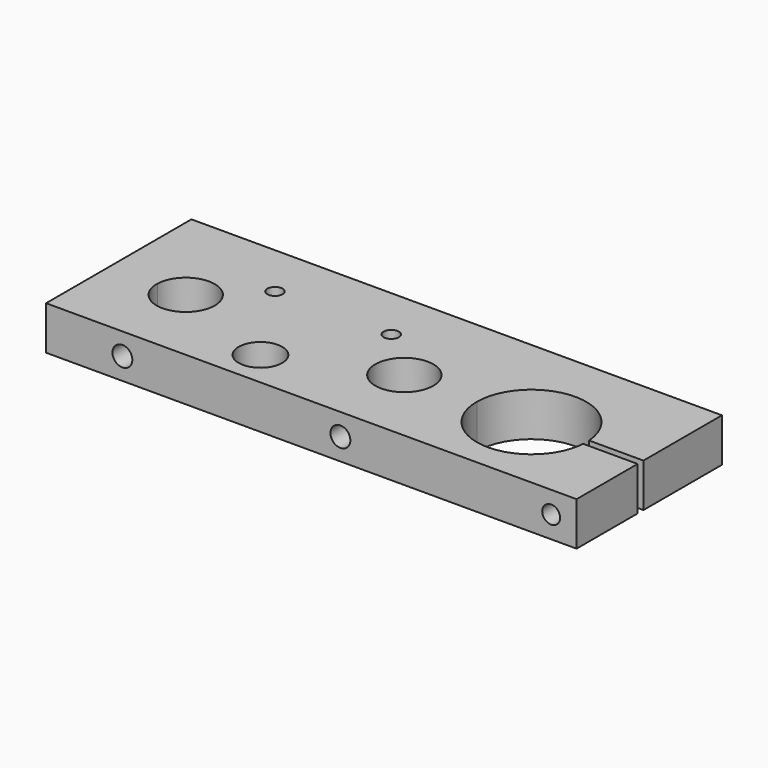
from build123d import *

# Parameters (mm, degrees)
F0_R           = 2.1
F0_R_2         = 6
F1_DEPTH       = 12
F3_D           = 4.91
F3_DEPTH       = 27
F5_D           = 6
F5_DEPTH       = 27
F5_CBORE_D     = 10
F5_CBORE_DEPTH = 15
F7_D           = 5.48
F7_DEPTH       = 20


with BuildPart() as f1:
    # F0 (on Top) → F1 (new body)
    with BuildSketch(Plane.XY):
        with BuildLine():
            Line((-73, 25), (-73, -3))
            Line((-73, -3), (-59.997182, -3))
            ThreePointArc((-59.997182, -3), (-52, 4.787677), (-44.002818, -3))
            Line((-44.002818, -3), (0, -3))
            ThreePointArc((0, -3), (8, 5), (16, -3))
            Line((16, -3), (27.95, -3))
            ThreePointArc((27.95, -3), (42.499724, 12.041683), (58.016741, -2))
            Line((58.016741, -2), (73, -2))
            Line((73, -2), (73, 25))
            Line((73, 25), (-73, 25))
        make_face()
        with Locations((-38, 10)):
            Circle(F0_R, mode=Mode.SUBTRACT)
        with Locations((-6, 10)):
            Circle(F0_R, mode=Mode.SUBTRACT)
        with BuildLine():
            Line((-73, -25), (73, -25))
            Line((73, -25), (73, -4))
            Line((73, -4), (58.016741, -4))
            ThreePointArc((58.016741, -4), (42.499724, -18.041683), (27.95, -3))
            Line((27.95, -3), (16, -3))
            ThreePointArc((16, -3), (8, -11), (0, -3))
            Line((0, -3), (-44.002818, -3))
            ThreePointArc((-44.002818, -3), (-44.000705, -3.106152), (-44, -3.212323))
            ThreePointArc((-44, -3.212323), (-52.106171, -11.211619), (-59.997182, -3))
            Line((-59.997182, -3), (-73, -3))
            Line((-73, -3), (-73, -25))
        make_face()
        with Locations((-22, -15)):
            Circle(F0_R_2, mode=Mode.SUBTRACT)
    extrude(amount=F1_DEPTH)

    # F3
    with Locations(Plane.XZ.offset(25)):
        with Locations((66, 6)):
            Hole(F3_D / 2, depth=F3_DEPTH)

    # F5
    with Locations(Plane(origin=(0, 25, 0), x_dir=(-1, 0, 0), z_dir=(0, 1, 0))):
        with Locations((-66, 6)):
            CounterBoreHole(F5_D / 2, F5_CBORE_D / 2, F5_CBORE_DEPTH, depth=F5_DEPTH)

    # F7
    with Locations(Plane.XZ.offset(25)):
        with Locations((-52, 6), (8, 6)):
            Hole(F7_D / 2, depth=F7_DEPTH)


solid = f1.part
